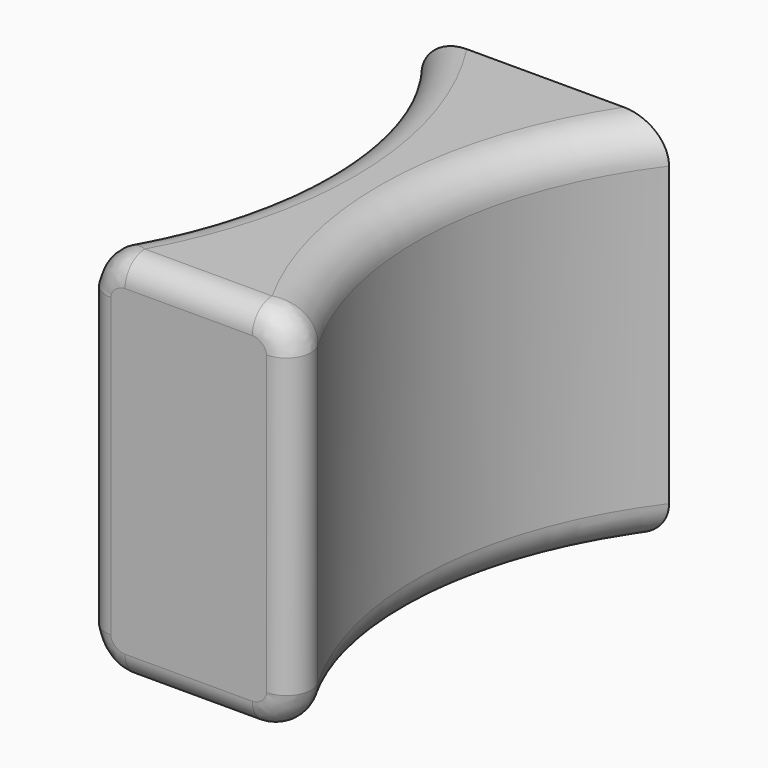
from build123d import *

# Parameters (mm, degrees)
PAD_DEPTH    = 30
SKETCH001_R  = 1.5
POCKET_DEPTH = 20
FILLET_R     = 3
FILLET001_R  = 2


with BuildPart() as part:
    # Sketch → Pad (new body)
    with BuildSketch(Plane.XY):
        with BuildLine():
            ThreePointArc((10, 18), (4, 0), (10, -18))
            Line((-10, -18), (10, -18))
            ThreePointArc((-10, -18), (-4, 0), (-10, 18))
            Line((10, 18), (-10, 18))
        make_face()
    extrude(amount=PAD_DEPTH)

    # Sketch001 (on Face4 of Pad) → Pocket (cut)
    with BuildSketch(Plane(origin=(0, 18, 0), x_dir=(-1, 0, 0), z_dir=(0, 1, 0))):
        with Locations((0, 15)):
            Circle(SKETCH001_R)
    extrude(amount=-POCKET_DEPTH, mode=Mode.SUBTRACT)

    # Fillet
    fillet_edges = [part.edges().sort_by_distance(p)[0] for p in [
        (-4, 0, 30),
        (-4, 0, 0),
        (4, 0, 30),
        (4, 0, 0),
    ]]
    fillet(fillet_edges, radius=FILLET_R)

    # Fillet001
    fillet001_edges = [part.edges().sort_by_distance(p)[0] for p in [
        (-10, -18, 15),
        (-8.791433, -18, 0.786234),
        (-8.791433, -18, 29.213766),
        (0, -18, 0),
        (0, -18, 30),
        (8.791433, -18, 0.786234),
        (8.791433, -18, 29.213766),
        (10, -18, 15),
    ]]
    fillet(fillet001_edges, radius=FILLET001_R)


solid = part.part
